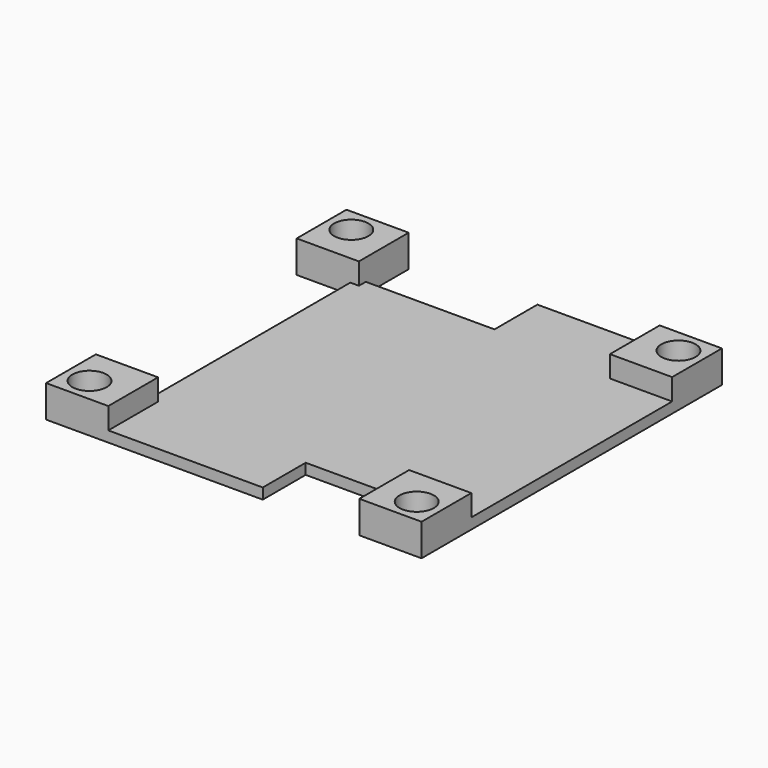
from build123d import *

# Parameters (mm, degrees)
F0_R     = 1.6
F0_W     = 5.8
F0_H     = 5.8
F1_DEPTH = 1
F2_DEPTH = 2


with BuildPart() as f1:
    # F0 (on Top) → F1 (new body)
    with BuildSketch(Plane.XY):
        Polygon((11.7, 11.7), (11.7, 17.5), (0.3, 17.5), (0.3, 12.5), (-11.7, 12.5), (-11.7, 11.7), (-12.5, 11.7), (-12.5, -11.7), (-11.7, -11.7), (-11.7, -17.5), (2.7, -17.5), (2.7, -12.5), (11.7, -12.5), (11.7, -11.7), (17.5, -11.7), (17.5, 11.7), align=None)
        Polygon((-12.5, -11.7), (-17.5, -11.7), (-17.5, -17.5), (-11.7, -17.5), (-11.7, -11.7), align=None)
        with Locations((-15.25, -15.25)):
            Circle(F0_R, mode=Mode.SUBTRACT)
        Polygon((17.5, -17.5), (17.5, -11.7), (11.7, -11.7), (11.7, -12.5), (11.7, -17.5), align=None)
        with Locations((15.25, -15.25)):
            Circle(F0_R, mode=Mode.SUBTRACT)
        with Locations((14.6, 14.6)):
            Rectangle(F0_W, F0_H)
        with Locations((15.25, 15.25)):
            Circle(F0_R, mode=Mode.SUBTRACT)
        Polygon((-11.7, 12.5), (-11.7, 17.5), (-17.5, 17.5), (-17.5, 11.7), (-12.5, 11.7), (-11.7, 11.7), align=None)
        with Locations((-15.25, 15.25)):
            Circle(F0_R, mode=Mode.SUBTRACT)
    extrude(amount=-F1_DEPTH)

    # F0 (on Top) → F2 (join)
    with BuildSketch(Plane.XY):
        Polygon((-12.5, -11.7), (-17.5, -11.7), (-17.5, -17.5), (-11.7, -17.5), (-11.7, -11.7), align=None)
        with Locations((-15.25, -15.25)):
            Circle(F0_R, mode=Mode.SUBTRACT)
        Polygon((-11.7, 12.5), (-11.7, 17.5), (-17.5, 17.5), (-17.5, 11.7), (-12.5, 11.7), (-11.7, 11.7), align=None)
        with Locations((-15.25, 15.25)):
            Circle(F0_R, mode=Mode.SUBTRACT)
        with Locations((14.6, 14.6)):
            Rectangle(F0_W, F0_H)
        with Locations((15.25, 15.25)):
            Circle(F0_R, mode=Mode.SUBTRACT)
        Polygon((17.5, -17.5), (17.5, -11.7), (11.7, -11.7), (11.7, -12.5), (11.7, -17.5), align=None)
        with Locations((15.25, -15.25)):
            Circle(F0_R, mode=Mode.SUBTRACT)
    extrude(amount=F2_DEPTH)


solid = f1.part
